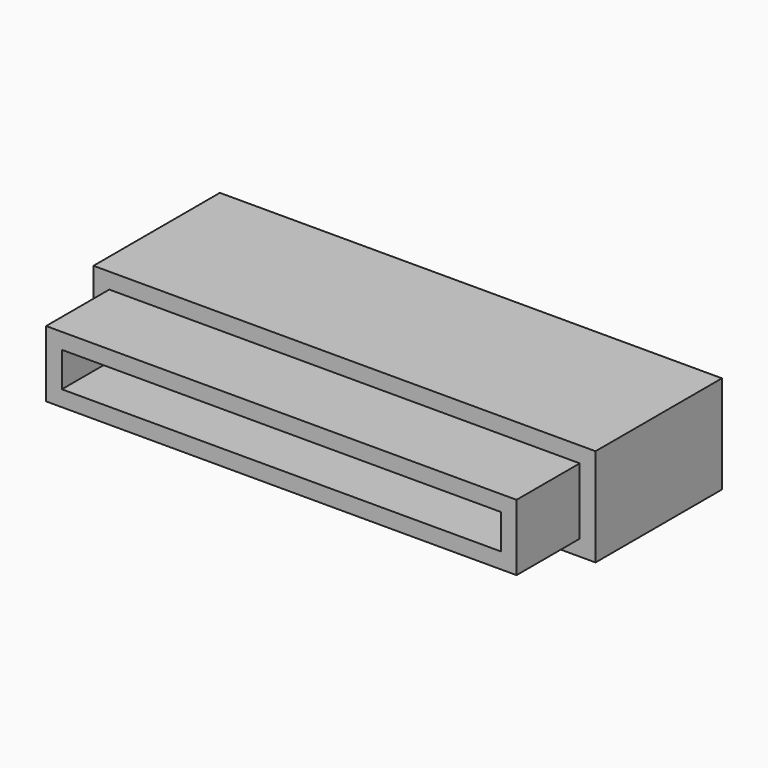
from build123d import *

# Parameters (mm, degrees)
F0_W          = 31.7814054862
F0_H          = 6.2
F0_W_2        = 29.7814054862
F0_H_2        = 4.2
F1_DEPTH      = 5
F1_DEPTH_BACK = 5
F0_W_3        = 27.7814054862
F0_H_3        = 2.2
F2_DEPTH      = 10


with BuildPart() as f1:
    # F0 (on Front) → F1 (new body, two sides)
    with BuildSketch(Plane.XZ) as f1_sk:
        with Locations((-0.1092972569, 0)):
            Rectangle(F0_W, F0_H)
        with Locations((-0.1092972569, 0)):
            Rectangle(F0_W_2, F0_H_2, mode=Mode.SUBTRACT)
    extrude(amount=-F1_DEPTH)
    extrude(f1_sk.sketch, amount=F1_DEPTH_BACK)

    # F0 (on Front) → F2 (join)
    with BuildSketch(Plane.XZ):
        with Locations((-0.1092972569, 0)):
            Rectangle(F0_W_2, F0_H_2)
        with Locations((-0.1092972569, 0)):
            Rectangle(F0_W_3, F0_H_3, mode=Mode.SUBTRACT)
    extrude(amount=F2_DEPTH)


solid = f1.part
